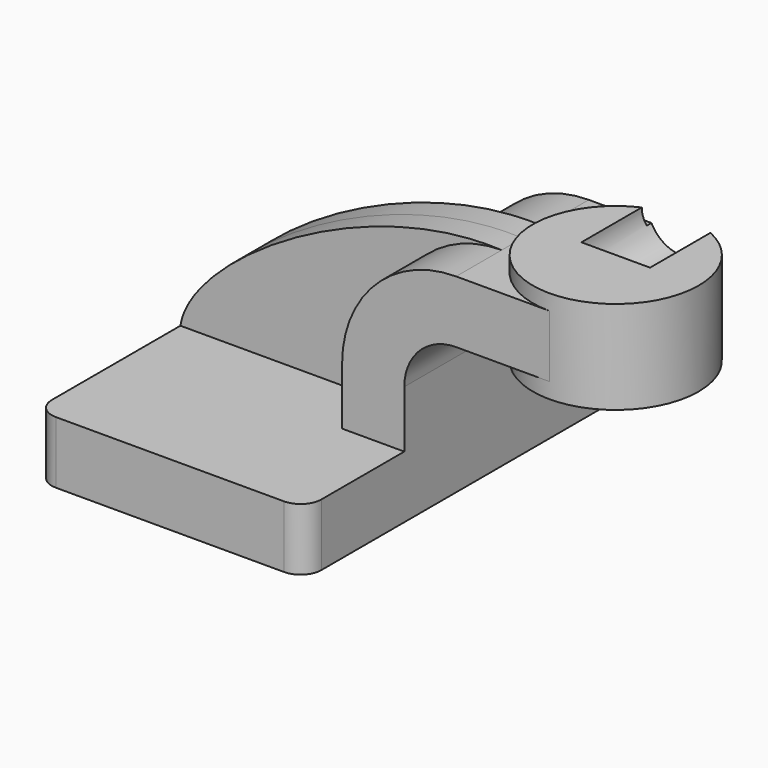
from build123d import *

# Parameters (mm, degrees)
F1_DEPTH = 63.5
F0_W     = 25.4
F0_H     = 19.05
F2_DEPTH = 25.4
F3_DEPTH = 7.9375
F5_R     = 6.35
F6_D     = 21.03374
F6_DEPTH = 63.501


with BuildPart() as f1:
    # F0 (on Front) → F1 (new body, symmetric)
    with BuildSketch(Plane.XZ):
        Polygon((-41.275, -9.525), (41.275, -9.525), (41.275, 9.525), (22.225, 9.525), (-41.275, 9.525), align=None)
    extrude(amount=F1_DEPTH, both=True)

    # F0 (on Front) → F2 (join, symmetric)
    with BuildSketch(Plane.XZ):
        with BuildLine():
            Line((22.225, 9.525), (41.275, 9.525))
            Line((41.275, 9.525), (41.275, 27.0002))
            ThreePointArc((41.275, 27.0002), (45.9246798487, 38.2255201513), (57.15, 42.8752))
            Line((57.15, 42.8752), (60.325, 42.8752))
            Line((60.325, 42.8752), (60.325, 61.9252))
            Line((60.325, 61.9252), (57.15, 61.9252))
            ThreePointArc((57.15, 61.9252), (32.4542956671, 51.6959043329), (22.225, 27.0002))
            Line((22.225, 27.0002), (22.225, 9.525))
        make_face()
        with Locations((73.025, 52.4002)):
            Rectangle(F0_W, F0_H)
    extrude(amount=F2_DEPTH, both=True)

    # F0 (on Front) → F3 (join, symmetric)
    with BuildSketch(Plane.XZ):
        with BuildLine():
            add(Edge.make_bspline(
                [(-41.275, 9.525), (-38.1687022746, 30.0928875804), (14.3155772239, 64.0365257859), (57.15, 61.9252)],
                knots=[0, 0, 0, 0, 111.5045361635, 111.5045361635, 111.5045361635, 111.5045361635], degree=3))
            Line((-41.275, 9.525), (22.225, 9.525))
            Line((22.225, 9.525), (22.225, 27.0002))
            ThreePointArc((22.225, 27.0002), (32.4542956671, 51.6959043329), (57.15, 61.9252))
        make_face()
    extrude(amount=F3_DEPTH, both=True)

    # F0 (on Front) → F4 (revolve)
    with BuildSketch(Plane.XZ):
        Polygon((85.725, 66.675), (85.725, 61.9252), (85.725, 42.8752), (85.725, 38.1), (111.125, 38.1), (111.125, 66.675), align=None)
    revolve(axis=Axis((85.725, 0, 52.3875), (0, 0, 1)))

    # F5
    f5_edges = [f1.edges().sort_by_distance(p)[0] for p in [
        (-41.275, -63.5, 0),
        (41.275, -63.5, 0),
        (41.275, 63.5, 0),
        (-41.275, 63.5, 0),
    ]]
    fillet(f5_edges, radius=F5_R)

    # F6 (through all, one way)
    with BuildSketch(Plane.XZ):
        with Locations((85.725, 66.675)):
            Circle(F6_D / 2)
    extrude(amount=-F6_DEPTH, mode=Mode.SUBTRACT)


solid = f1.part
